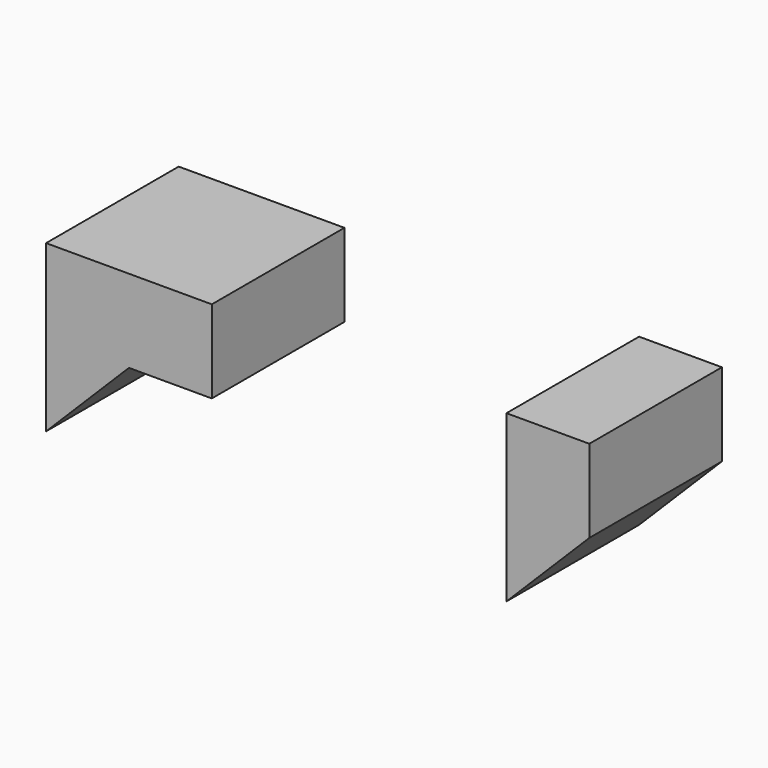
from build123d import *

# Parameters (mm, degrees)
F1_DEPTH = 9


with BuildPart() as f1:
    # F0 (on Front) → F1 (new body)
    with BuildSketch(Plane.XZ):
        Polygon((-0.532896, 9.014923), (-0.532896, 13.514923), (-9.532896, 13.514923), (-9.532896, 4.514923), (-5.032896, 9.014923), align=None)
        Polygon((19.967104, 13.514923), (15.467104, 13.514923), (15.467104, 4.514923), (19.967104, 9.014923), align=None)
    extrude(amount=F1_DEPTH)


solid = f1.part
